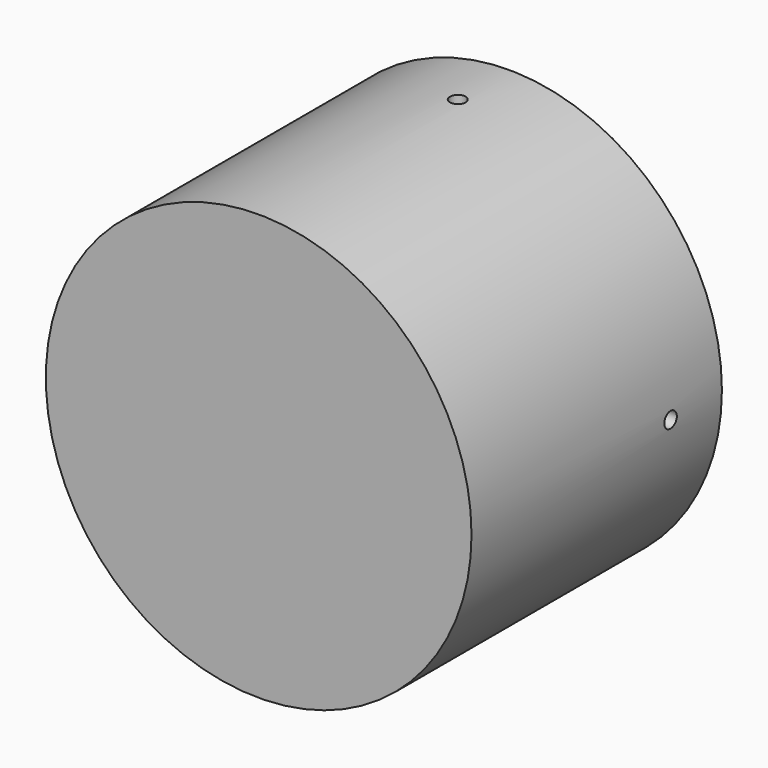
from build123d import *

# Parameters (mm, degrees)
F0_R     = 68
F0_R_2   = 8.5
F1_DEPTH = 100
F2_DEPTH = 9
F4_R     = 2.5
F5_DEPTH = 75
F6_R     = 2.5
F7_DEPTH = 75
F3_R     = 7
F8_DEPTH = 18


with BuildPart() as f1:
    # F0 (on Front) → F1 (new body)
    with BuildSketch(Plane.XZ):
        Circle(F0_R)
        Circle(F0_R_2, mode=Mode.SUBTRACT)
        Circle(F0_R_2)
    extrude(amount=F1_DEPTH)

    # F0 (on Front) → F2 (join)
    with BuildSketch(Plane.XZ):
        Circle(F0_R_2)
    extrude(amount=-F2_DEPTH)

    # F4 (on Top) → F5 (cut, symmetric)
    with BuildSketch(Plane.XY):
        with Locations((0, -20.5)):
            Circle(F4_R)
    extrude(amount=F5_DEPTH, both=True, mode=Mode.SUBTRACT)

    # F6 (on Right) → F7 (cut, symmetric)
    with BuildSketch(Plane.YZ):
        with Locations((-20.5, 0)):
            Circle(F6_R)
    extrude(amount=F7_DEPTH, both=True, mode=Mode.SUBTRACT)

    # F3 (on face) → F8 (join)
    with BuildSketch(Plane(origin=(0, 9, 0), x_dir=(-1, 0, 0), z_dir=(0, 1, 0))):
        Circle(F3_R)
    extrude(amount=F8_DEPTH)


solid = f1.part
